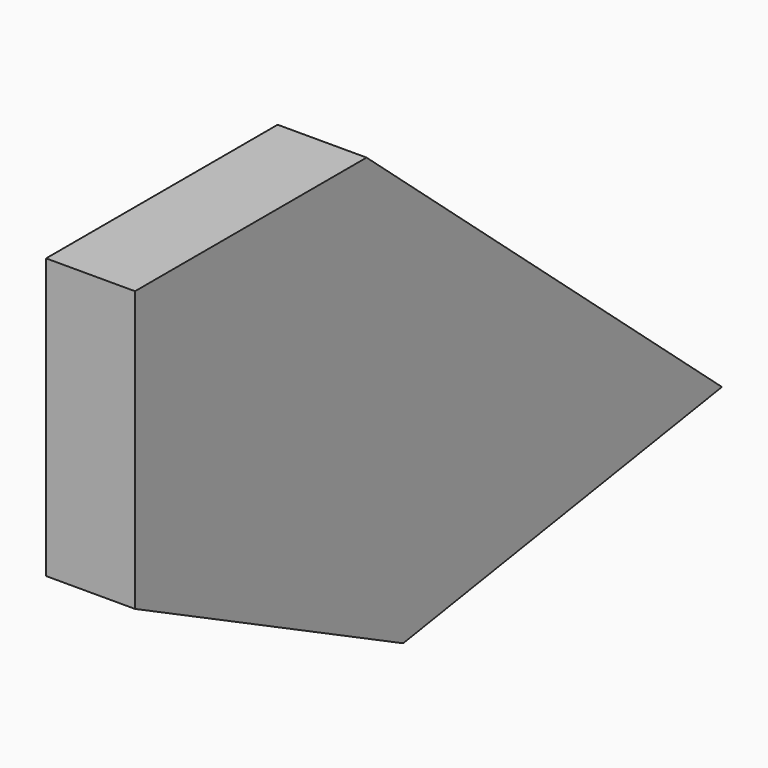
from build123d import *

# Parameters (mm, degrees)
F0_W     = 81.358406
F0_H     = 78.619389
F1_DEPTH = 25


with BuildPart() as f1:
    # F0 (on Right) → F1 (new body)
    with BuildSketch(Plane.YZ):
        Polygon((23.111533, -28.777307), (-58.246873, -28.777307), (35.977684, -75.584203), (147.975132, -57.679411), align=None)
        Polygon((147.975132, -57.679411), (23.111533, 49.842082), (23.111533, -28.777307), align=None)
        with Locations((-17.56767, 10.532387)):
            Rectangle(F0_W, F0_H)
    extrude(amount=-F1_DEPTH)


solid = f1.part
